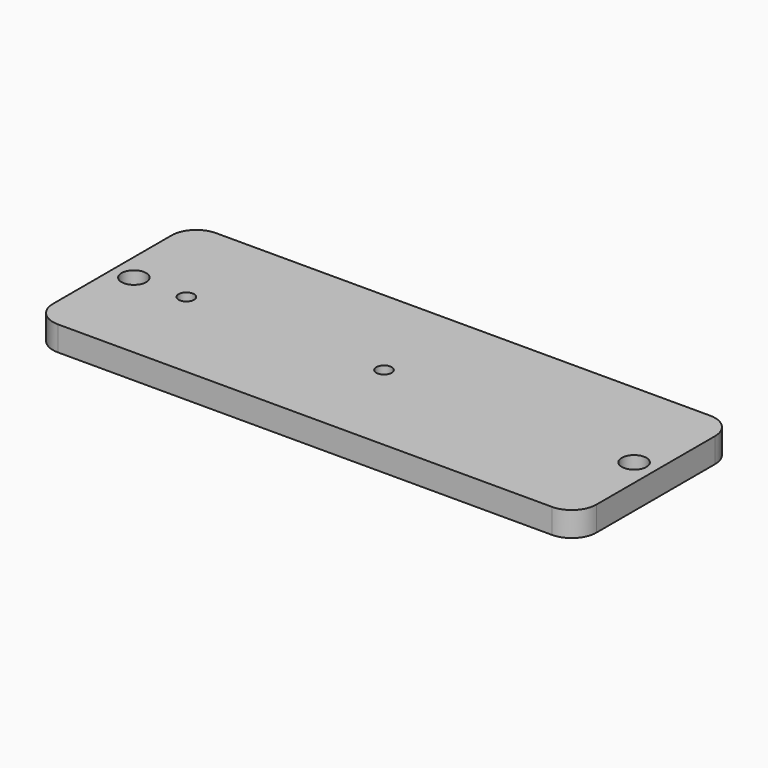
from build123d import *

# Parameters (mm, degrees)
F0_R     = 6.35
F0_R_2   = 3.96875
F1_DEPTH = 6.35


with BuildPart() as f1:
    # F0 (on Top) → F1 (new body, symmetric)
    with BuildSketch(Plane.XY):
        with BuildLine():
            Line((186.773003, 59.643891), (-67.226997, 59.643891))
            ThreePointArc((-67.226997, 59.643891), (-76.207254, 55.924148), (-79.926997, 46.943891))
            Line((-79.926997, 46.943891), (-79.926997, -29.256109))
            ThreePointArc((-79.926997, -29.256109), (-76.207254, -38.236365), (-67.226997, -41.956109))
            Line((-67.226997, -41.956109), (186.773003, -41.956109))
            ThreePointArc((186.773003, -41.956109), (195.753259, -38.236365), (199.473003, -29.256109))
            Line((199.473003, -29.256109), (199.473003, 46.943891))
            ThreePointArc((199.473003, 46.943891), (195.753259, 55.924148), (186.773003, 59.643891))
        make_face()
        with Locations((-68.812973, 8.843891)):
            Circle(F0_R, mode=Mode.SUBTRACT)
        with Locations((-41.826997, 8.843891)):
            Circle(F0_R_2, mode=Mode.SUBTRACT)
        with Locations((59.773003, 8.843891)):
            Circle(F0_R_2, mode=Mode.SUBTRACT)
        with Locations((188.360503, 8.843891)):
            Circle(F0_R, mode=Mode.SUBTRACT)
    extrude(amount=F1_DEPTH, both=True)


solid = f1.part
